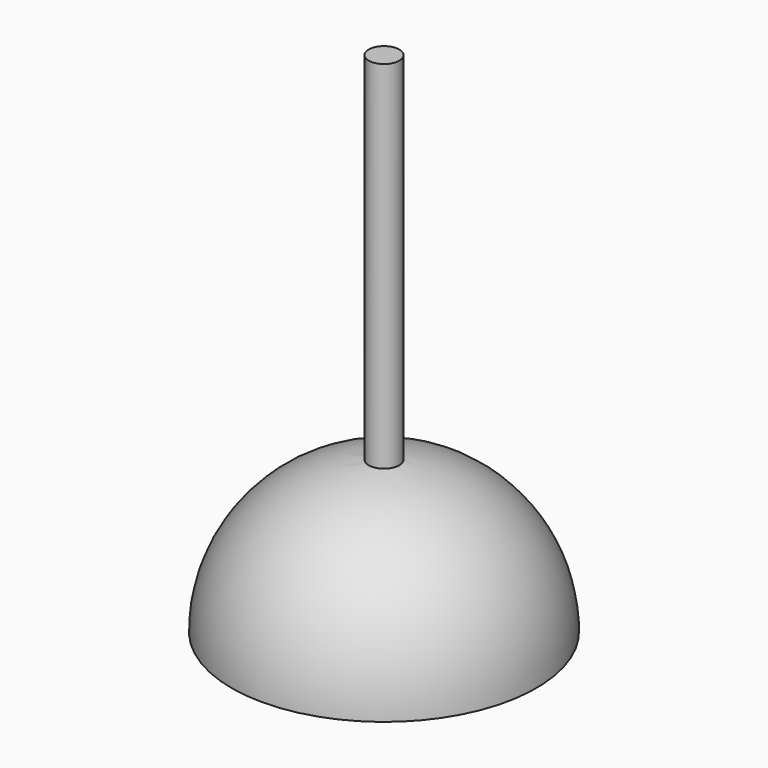
from build123d import *

# Parameters (mm, degrees)
F1_ANGLE = -180
F2_R     = 3.81
F3_DEPTH = 127


with BuildPart() as f1:
    # F0 (on Top) → F1 (revolve)
    with BuildSketch(Plane.XY):
        with BuildLine():
            Line((0, 76.2), (0, 0))
            ThreePointArc((0, 0), (38.1, 38.1), (0, 76.2))
        make_face()
    revolve(axis=Axis((0, 38.1, 0), (0, 1, 0)), revolution_arc=F1_ANGLE)

    # F2 (on face) → F3 (join)
    with BuildSketch(Plane(origin=(0, 0, 0), x_dir=(1, 0, 0), z_dir=(0, 0, -1))):
        with Locations((0, -38.1)):
            Circle(F2_R)
    extrude(amount=-F3_DEPTH)


solid = f1.part
